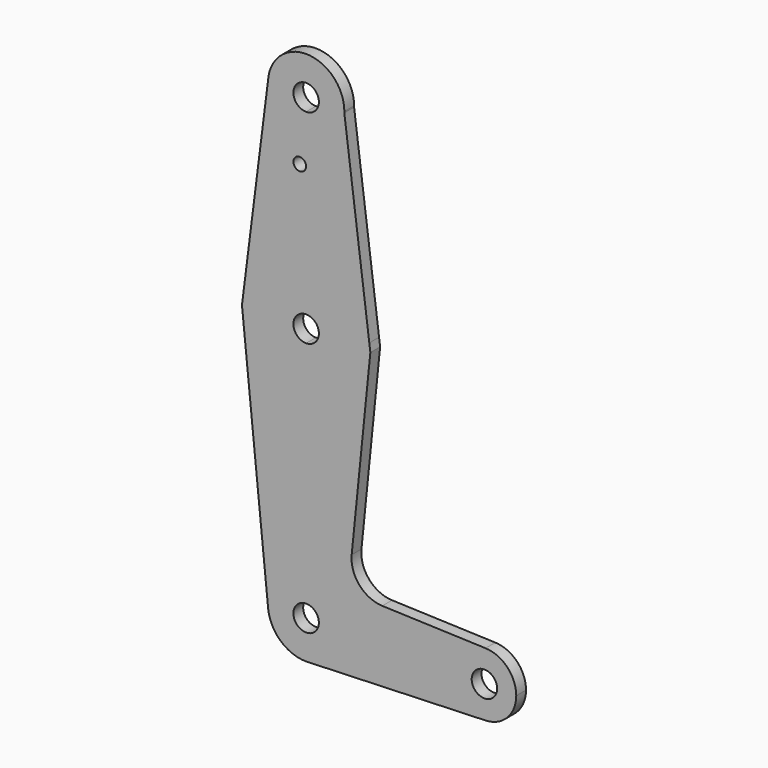
from build123d import *

# Parameters (mm, degrees)
F0_R     = 1.5875
F1_DEPTH = 3.048


with BuildPart() as f1:
    # F0 (on Front) → F1 (new body)
    with BuildSketch(Plane.XZ):
        with BuildLine():
            Line((0.6773435479, -73.000885786), (0, -73.025))
            ThreePointArc((0, -73.025), (0.3388863295, -73.0189695375), (0.6773435479, -73.000885786))
        make_face()
        with BuildLine():
            Line((36.5125, -63.5), (9.525, -63.5))
            ThreePointArc((9.525, -63.5), (6.9705567315, -69.9912990883), (0.6773435479, -73.000885786))
            Line((0.6773435479, -73.000885786), (44.7324052746, -71.4324746146))
            ThreePointArc((44.7324052746, -71.4324746146), (38.9380895153, -69.2116327839), (36.5125, -63.5))
        make_face()
        with BuildLine():
            ThreePointArc((-9.5086043233, 51.3586312046), (-6.929884098, 44.2652979113), (0, 41.275))
            ThreePointArc((0, 41.275), (6.6220226459, 43.9535088493), (9.5197101197, 50.4825976741))
            ThreePointArc((9.5197101197, 50.4825976741), (9.5236774381, 50.6412767981), (9.525, 50.8))
            ThreePointArc((9.525, 50.8), (0.2794358786, 60.3209001985), (-9.5086043233, 51.3586312046))
        make_face()
        with BuildLine():
            ThreePointArc((3.175, 50.8), (2.2450640303, 48.5549359697), (0, 47.625))
            ThreePointArc((0, 47.625), (-2.2450640303, 53.0450640303), (3.175, 50.8))
        make_face(mode=Mode.SUBTRACT)
        with BuildLine():
            ThreePointArc((0, -15.875), (-11.9084806114, -10.4977956985), (-15.7496436584, 1.9910674611))
            Line((-15.7496436584, 1.9910674611), (-16.0013540812, 0))
            Line((-16.0013540812, 0), (-9.4765744721, -64.4592503717))
            ThreePointArc((-9.4765744721, -64.4592503717), (-7.0662042424, -57.1129519647), (0, -53.975))
            Line((0, -53.975), (0, -15.875))
        make_face()
        with BuildLine():
            ThreePointArc((44.7324052746, -55.5675253854), (38.9380895153, -57.7883672161), (36.5125, -63.5))
            ThreePointArc((36.5125, -63.5), (38.9380895153, -69.2116327839), (44.7324052746, -71.4324746146))
            ThreePointArc((44.7324052746, -71.4324746146), (50.1616327839, -69.0119104847), (52.3875, -63.5))
            ThreePointArc((52.3875, -63.5), (50.1616327839, -57.9880895153), (44.7324052746, -55.5675253854))
        make_face()
        with BuildLine():
            ThreePointArc((47.625, -63.5), (44.45, -66.675), (41.275, -63.5))
            ThreePointArc((41.275, -63.5), (44.45, -60.325), (47.625, -63.5))
        make_face(mode=Mode.SUBTRACT)
        with BuildLine():
            Line((0, 35.6387868524), (0, 41.275))
            ThreePointArc((0, 41.275), (-6.929884098, 44.2652979113), (-9.5086043233, 51.3586312046))
            Line((-9.5086043233, 51.3586312046), (-15.7496436584, 1.9910674611))
            ThreePointArc((-15.7496436584, 1.9910674611), (-10.4977956985, 11.9084806114), (0, 15.875))
            Line((0, 15.875), (0, 35.6387868524))
        make_face()
        with Locations((-1.5875, 35.6387868524)):
            Circle(F0_R, mode=Mode.SUBTRACT)
        with BuildLine():
            Line((0, 3.175), (0, 15.875))
            ThreePointArc((0, 15.875), (-10.4977956985, 11.9084806114), (-15.7496436584, 1.9910674611))
            ThreePointArc((-15.7496436584, 1.9910674611), (-11.9084806114, -10.4977956985), (0, -15.875))
            Line((0, -15.875), (0, -3.175))
            ThreePointArc((0, -3.175), (-3.175, 0), (0, 3.175))
        make_face()
        with BuildLine():
            Line((0, -60.325), (0, -53.975))
            ThreePointArc((0, -53.975), (-7.0662042424, -57.1129519647), (-9.4765744721, -64.4592503717))
            ThreePointArc((-9.4765744721, -64.4592503717), (-6.3870480353, -70.5662042424), (0, -73.025))
            Line((0, -73.025), (0.6773435479, -73.000885786))
            ThreePointArc((0.6773435479, -73.000885786), (6.9705567315, -69.9912990883), (9.525, -63.5))
            Line((9.525, -63.5), (3.175, -63.5))
            ThreePointArc((3.175, -63.5), (-2.2450640303, -65.7450640303), (0, -60.325))
        make_face()
        with BuildLine():
            Line((16.005479486, 0), (15.7455841419, 2.0229199266))
            ThreePointArc((15.7455841419, 2.0229199266), (15.8426129987, 1.0135276876), (15.875, 0))
            ThreePointArc((15.875, 0), (11.2253201513, -11.2253201513), (0, -15.875))
            Line((0, -15.875), (0, -53.975))
            ThreePointArc((0, -53.975), (6.7351920908, -56.7648079092), (9.525, -63.5))
            Line((9.525, -63.5), (36.5125, -63.5))
            ThreePointArc((36.5125, -63.5), (38.9380895153, -57.7883672161), (44.7324052746, -55.5675253854))
            Line((44.7324052746, -55.5675253854), (18.9828096879, -54.650809989))
            ThreePointArc((18.9828096879, -54.650809989), (13.2736589415, -51.9307292262), (11.3559367225, -45.9044880186))
            Line((11.3559367225, -45.9044880186), (16.005479486, 0))
        make_face()
        with BuildLine():
            ThreePointArc((15.7455841419, 2.0229199266), (10.4857467823, 11.9190913839), (0, 15.875))
            Line((0, 15.875), (0, 3.175))
            ThreePointArc((0, 3.175), (2.2450640303, 2.2450640303), (3.175, 0))
            ThreePointArc((3.175, 0), (2.2450640303, -2.2450640303), (0, -3.175))
            Line((0, -3.175), (0, -15.875))
            ThreePointArc((0, -15.875), (11.2253201513, -11.2253201513), (15.875, 0))
            ThreePointArc((15.875, 0), (15.8426129987, 1.0135276876), (15.7455841419, 2.0229199266))
        make_face()
        with BuildLine():
            ThreePointArc((9.5197101197, 50.4825976741), (6.6220226459, 43.9535088493), (0, 41.275))
            Line((0, 41.275), (0, 35.6387868524))
            Line((0, 35.6387868524), (0, 15.875))
            ThreePointArc((0, 15.875), (10.4857467823, 11.9190913839), (15.7455841419, 2.0229199266))
            Line((15.7455841419, 2.0229199266), (9.5197101197, 50.4825976741))
        make_face()
        with BuildLine():
            ThreePointArc((9.525, -63.5), (6.7351920908, -56.7648079092), (0, -53.975))
            Line((0, -53.975), (0, -60.325))
            ThreePointArc((0, -60.325), (2.2450640303, -61.2549359697), (3.175, -63.5))
            Line((3.175, -63.5), (9.525, -63.5))
        make_face()
    extrude(amount=F1_DEPTH)


solid = f1.part
